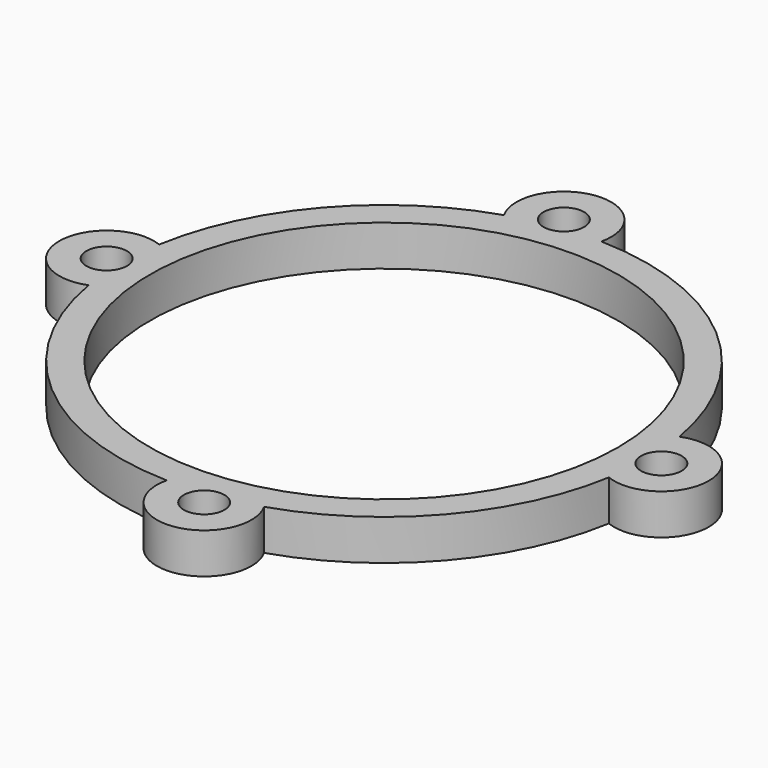
from build123d import *

# Parameters (mm, degrees)
SKETCH_R   = 17.3
SKETCH_R_2 = 1.5
PAD_DEPTH  = 3


with BuildPart() as part:
    # Sketch → Pad (new body)
    with BuildSketch(Plane.XY):
        with BuildLine():
            ThreePointArc((19.22561, 3.259744), (12.761949, 14.743902), (0.46975, 19.494341))
            ThreePointArc((0.46975, 19.494341), (-3.440809, 23.75207), (-5.982388, 18.559661))
            ThreePointArc((-5.982388, 18.559661), (-14.743902, 12.761949), (-19.22561, 3.259744))
            ThreePointArc((-19.22561, 3.259744), (-24, 0), (-19.22561, -3.259744))
            ThreePointArc((-19.22561, -3.259744), (-12.761949, -14.743902), (-0.46975, -19.494341))
            ThreePointArc((-0.46975, -19.494341), (3.440809, -23.75207), (5.982388, -18.559661))
            ThreePointArc((5.982388, -18.559661), (14.743902, -12.761949), (19.22561, -3.259744))
            ThreePointArc((19.22561, -3.259744), (24, 0), (19.22561, 3.259744))
        make_face()
        Circle(SKETCH_R, mode=Mode.SUBTRACT)
        with Locations((20.5, 0)):
            Circle(SKETCH_R_2, mode=Mode.SUBTRACT)
        with Locations((-20.5, 0)):
            Circle(SKETCH_R_2, mode=Mode.SUBTRACT)
        with Locations((-2.939024, 20.288227)):
            Circle(SKETCH_R_2, mode=Mode.SUBTRACT)
        with Locations((2.939024, -20.288227)):
            Circle(SKETCH_R_2, mode=Mode.SUBTRACT)
    extrude(amount=PAD_DEPTH)


solid = part.part
